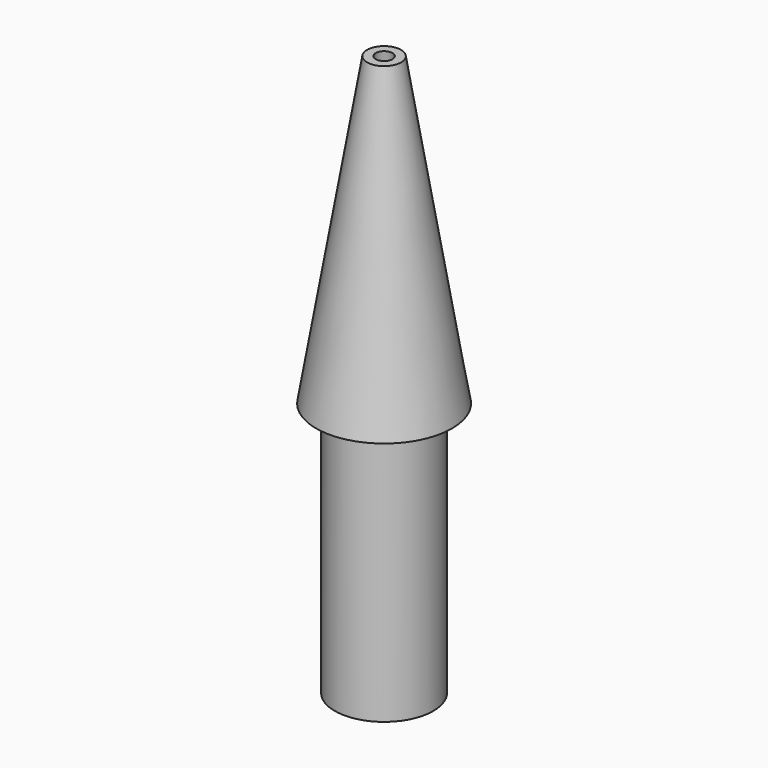
from build123d import *

# Parameters (mm, degrees)
F0_R     = 4
F2_R     = 1
F4_T     = -0.5
F5_R     = 2.9
F6_DEPTH = 15


with BuildPart() as f3:
    # F0 (on Top) → F3 section 0
    with BuildSketch(Plane.XY):
        Circle(F0_R)
    # F2 (on offset) → F3 section 1
    with BuildSketch(Plane.XY.offset(18)):
        Circle(F2_R)
    loft()

    # F4
    f4_openings = [f3.faces().sort_by_distance(p)[0] for p in [
        (0, 0, 18),
    ]]
    offset(amount=F4_T, openings=f4_openings, kind=Kind.INTERSECTION)

    # F5 (on face) → F6 (join)
    with BuildSketch(Plane(origin=(0, 0, 0), x_dir=(1, 0, 0), z_dir=(0, 0, -1))):
        Circle(F5_R)
    extrude(amount=F6_DEPTH)


solid = f3.part
